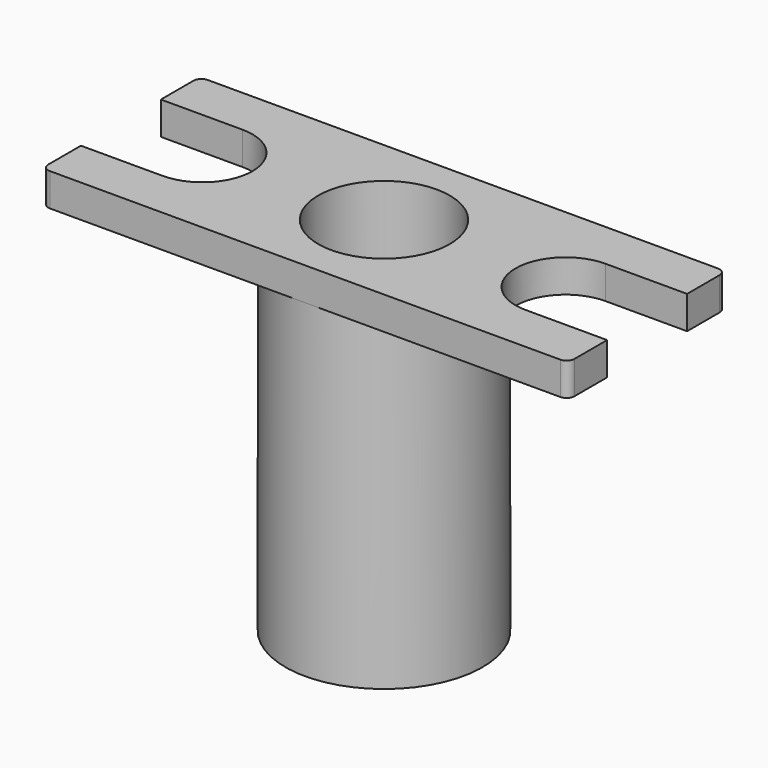
from build123d import *

# Parameters (mm, degrees)
F0_R     = 19.05
F1_DEPTH = 69.85
F2_R     = 12.7
F3_DEPTH = 63.5
F4_R     = 4.7625
F5_DEPTH = 69.851
F7_DEPTH = 6.35
F8_ANGLE = 90


with BuildPart() as f1:
    # F0 (on Top) → F1 (new body)
    with BuildSketch(Plane.XY):
        Circle(F0_R)
    extrude(amount=F1_DEPTH)

    # F2 (on face) → F3 (cut)
    with BuildSketch(Plane.XY.offset(69.85)):
        Circle(F2_R)
    extrude(amount=-F3_DEPTH, mode=Mode.SUBTRACT)

    # F4 (on face) → F5 (cut, through all)
    with BuildSketch(Plane(origin=(0, 0, 0), x_dir=(1, 0, 0), z_dir=(0, 0, -1))):
        Circle(F4_R)
    extrude(amount=-F5_DEPTH, mode=Mode.SUBTRACT)

    # F6 (on face) → F7 (join)
    with BuildSketch(Plane.XY.offset(69.85)):
        with BuildLine():
            Line((9.652, -50.8), (17.526, -50.8))
            ThreePointArc((17.526, -50.8), (18.6036307345, -50.3536307345), (19.05, -49.276))
            Line((19.05, -49.276), (19.05, 0))
            ThreePointArc((19.05, 0), (7.1e-09, -19.05), (-19.05, -1.43e-08))
            Line((-19.05, -1.43e-08), (-19.05, -49.276))
            ThreePointArc((-19.05, -49.276), (-18.6036307345, -50.3536307345), (-17.526, -50.8))
            Line((-17.526, -50.8), (-9.652, -50.8))
            Line((-9.652, -50.8), (-9.652, -35.052))
            ThreePointArc((-9.652, -35.052), (0, -25.4), (9.652, -35.052))
            Line((9.652, -35.052), (9.652, -50.8))
        make_face()
        with BuildLine():
            ThreePointArc((-19.05, -1.43e-08), (-7.1e-09, 19.05), (19.05, 0))
            Line((19.05, 0), (19.05, 49.276))
            ThreePointArc((19.05, 49.276), (18.6036307345, 50.3536307345), (17.526, 50.8))
            Line((17.526, 50.8), (9.652, 50.8))
            Line((9.652, 50.8), (9.652, 35.052))
            ThreePointArc((9.652, 35.052), (0, 25.4), (-9.652, 35.052))
            Line((-9.652, 35.052), (-9.652, 50.8))
            Line((-9.652, 50.8), (-17.526, 50.8))
            ThreePointArc((-17.526, 50.8), (-18.6036307345, 50.3536307345), (-19.05, 49.276))
            Line((-19.05, 49.276), (-19.05, -1.43e-08))
        make_face()
    extrude(amount=-F7_DEPTH)


with BuildPart() as f1_1:
    # F8: moved
    add(f1.part.rotate(Axis((0, 0, 69.85), (0, 0, 1)), F8_ANGLE))


solid = f1_1.part
